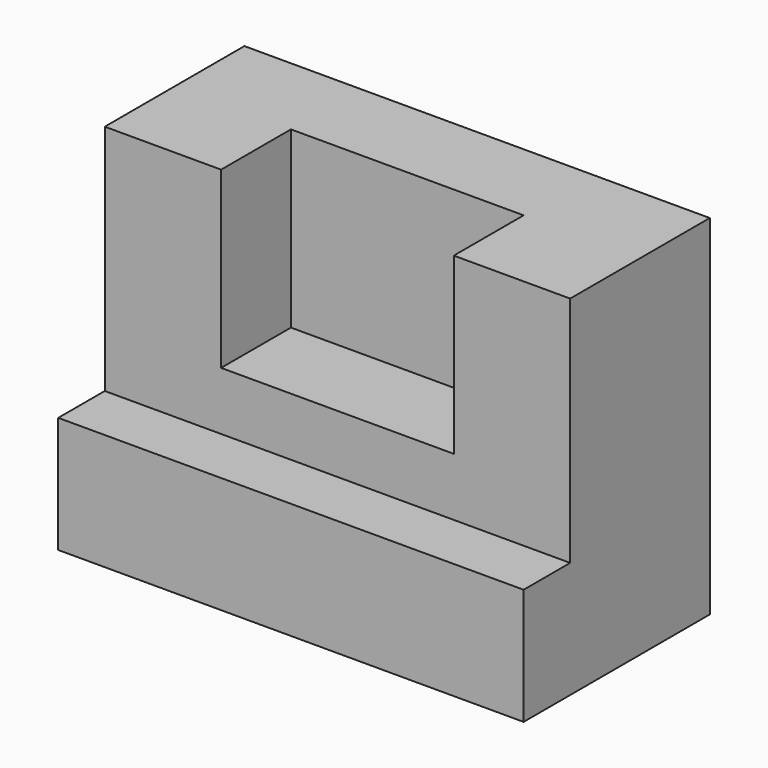
from build123d import *

# Parameters (mm, degrees)
F0_W     = 101.6
F0_H     = 50.8
F1_DEPTH = 25.4
F2_W     = 101.6
F2_H     = 38.1
F3_DEPTH = 50.8
F4_W     = 50.8
F4_H     = 38.1
F5_DEPTH = 19.05


with BuildPart() as f1:
    # F0 (on Top) → F1 (new body)
    with BuildSketch(Plane.XY):
        with Locations((25.266851, 12.138548)):
            Rectangle(F0_W, F0_H)
    extrude(amount=F1_DEPTH)

    # F2 (on face) → F3 (join)
    with BuildSketch(Plane.XY.offset(25.4)):
        with Locations((25.266851, 18.488548)):
            Rectangle(F2_W, F2_H)
    extrude(amount=F3_DEPTH)

    # F4 (on face) → F5 (cut)
    with BuildSketch(Plane.XZ.offset(0.561452)):
        with Locations((25.266851, 57.15)):
            Rectangle(F4_W, F4_H)
    extrude(amount=-F5_DEPTH, mode=Mode.SUBTRACT)


solid = f1.part
